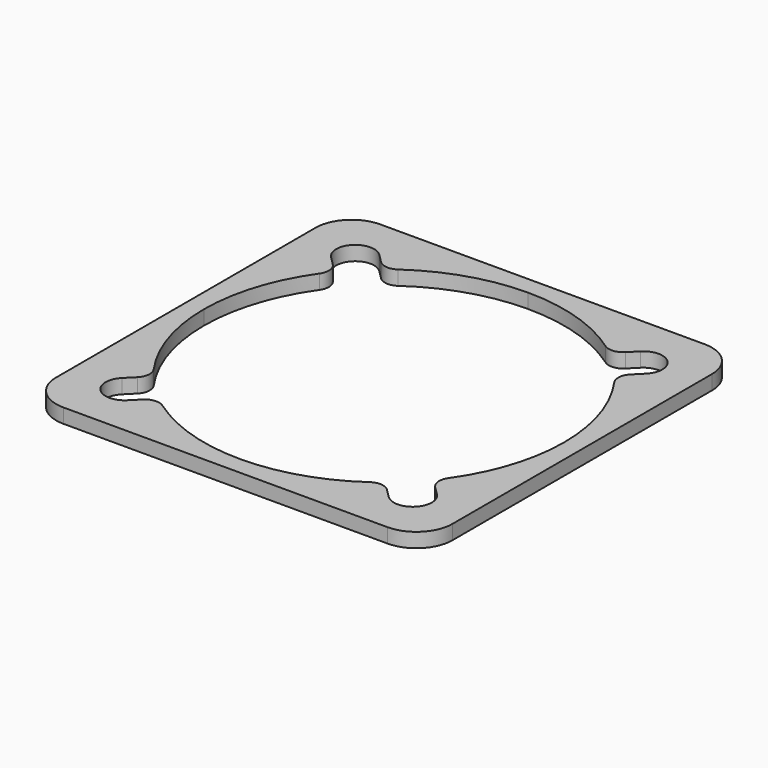
from build123d import *

# Parameters (mm, degrees)
PAD_DEPTH = 2
FILLET_R  = 5


with BuildPart() as fillet_body:
    # Sketch → Pad (new body)
    with BuildSketch(Plane.XY):
        with BuildLine():
            ThreePointArc((21.856671, 18.137289), (21.856671, 21.856671), (18.137289, 21.856671))
            Line((18.137289, 21.856671), (16.949391, 20.668772))
            ThreePointArc((14.385148, 20.446699), (15.707739, 20.090444), (16.949391, 20.668772))
            ThreePointArc((14.385148, 20.446699), (7.544286, 23.834507), (0, 25))
            Line((0, 25), (0, 27.5))
            Line((0, 27.5), (27.5, 27.5))
            Line((27.5, 27.5), (27.5, 0))
            Line((27.5, 0), (25, 0))
            ThreePointArc((25, 0), (23.834641, 7.543864), (20.447209, 14.384423))
            ThreePointArc((20.668772, 16.949391), (20.090406, 15.707297), (20.447209, 14.384423))
            Line((21.856671, 18.137289), (20.668772, 16.949391))
        make_face()
    extrude(amount=PAD_DEPTH)

    # Fillet
    fillet_edges = [fillet_body.edges().sort_by_distance(p)[0] for p in [
        (27.5, 27.5, 1),
    ]]
    fillet(fillet_edges, radius=FILLET_R)


with BuildPart() as part_mirroring:
    # Part__Mirroring: instance of Fillet body
    add(fillet_body.part.mirror(Plane(origin=(0, 0, 0), x_dir=(0, -1, 0), z_dir=(1, 0, 0))))


with BuildPart() as fusion:
    # Fusion base: copy of Fillet body
    add(fillet_body.part)

    # Fusion: union Part__Mirroring
    add(part_mirroring.part)


with BuildPart() as part_mirroring001:
    # Part__Mirroring001: instance of Fusion
    add(fusion.part.mirror(Plane(origin=(0, 0, 0), x_dir=(1, 0, 0), z_dir=(0, 1, 0))))


with BuildPart() as fusion001:
    # Fusion001 base: copy of Fusion
    add(fusion.part)

    # Fusion001: union Part__Mirroring001
    add(part_mirroring001.part)


solid = fusion001.part
